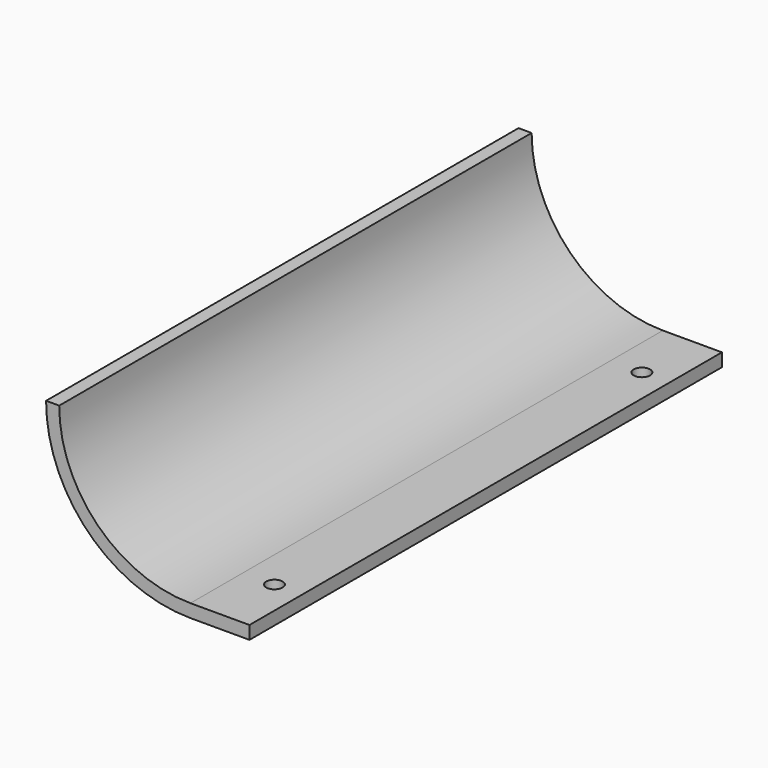
from build123d import *

# Parameters (mm, degrees)
F1_DEPTH = 114.3
F2_R     = 1.5875
F3_DEPTH = 27.941


with BuildPart() as f1:
    # F0 (on Front) → F1 (new body)
    with BuildSketch(Plane.XZ):
        with BuildLine():
            ThreePointArc((0, -25.4), (-17.960512, -17.960512), (-25.4, 0))
            Line((-25.4, 0), (-27.94, 0))
            ThreePointArc((-27.94, 0), (-19.756563, -19.756563), (0, -27.94))
            Line((0, -27.94), (11.43, -27.94))
            Line((11.43, -27.94), (11.43, -25.4))
            Line((11.43, -25.4), (0, -25.4))
        make_face()
    extrude(amount=F1_DEPTH)

    # F2 (on face) → F3 (cut, through all)
    with BuildSketch(Plane(origin=(0, 0, -27.94), x_dir=(1, 0, 0), z_dir=(0, 0, -1))):
        with Locations((6.096, 12.694284)):
            Circle(F2_R)
        with Locations((6.096, 101.6)):
            Circle(F2_R)
    extrude(amount=-F3_DEPTH, mode=Mode.SUBTRACT)


solid = f1.part
